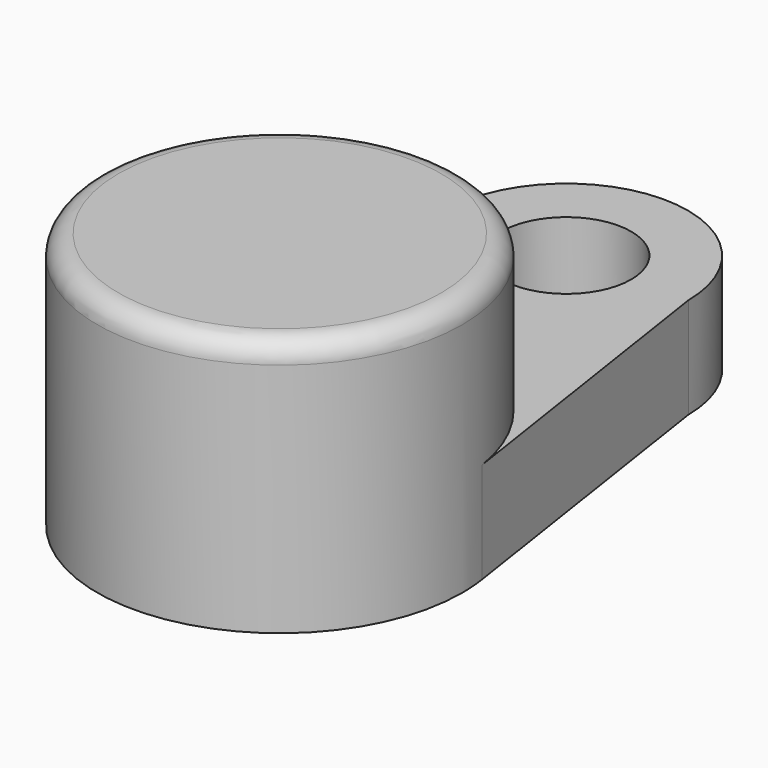
from build123d import *

# Parameters (mm, degrees)
F0_R     = 28.575
F1_DEPTH = 40.2336
F2_R     = 3.302
F4_R     = 10.16
F5_DEPTH = 15.7734


with BuildPart() as f1:
    # F0 (on Top) → F1 (new body)
    with BuildSketch(Plane.XY):
        with Locations((-37.4545902014, -20.9862291813)):
            Circle(F0_R)
    extrude(amount=F1_DEPTH)

    # F2
    f2_edges = [f1.edges().sort_by_distance(p)[0] for p in [
        (-66.02959, -20.986229, 40.2336),
    ]]
    fillet(f2_edges, radius=F2_R)

    # F4 (on face) → F5 (join)
    with BuildSketch(Plane(origin=(0, 0, 0), x_dir=(1, 0, 0), z_dir=(0, 0, -1))):
        with BuildLine():
            Line((-65.3540068038, 14.8094032778), (-54.8419142609, -32.6714961972))
            ThreePointArc((-54.8419142609, -32.6714961972), (-35.9806114834, -52.0378622288), (-16.7446354188, -33.0435972896))
            Line((-16.7446354188, -33.0435972896), (-9.202451986, 16.7028530294))
            ThreePointArc((-9.202451986, 16.7028530294), (-36.4915787142, -7.5725388922), (-65.3540068038, 14.8094032778))
        make_face()
        with Locations((-35.7945565225, -32.9887708187)):
            Circle(F4_R, mode=Mode.SUBTRACT)
    extrude(amount=-F5_DEPTH)


solid = f1.part
